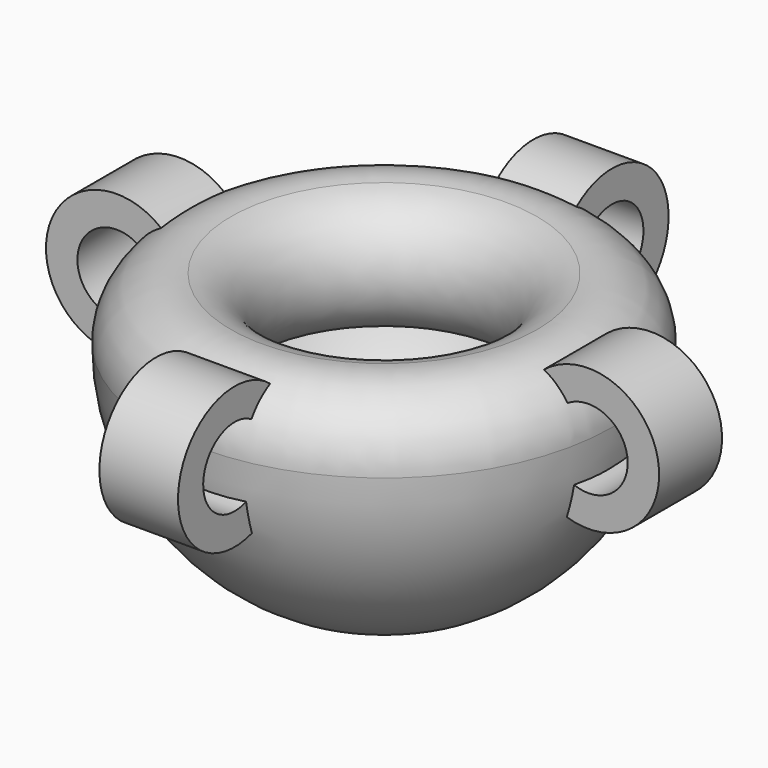
from build123d import *

# Parameters (mm, degrees)
F2_R     = 22.5
F2_R_2   = 12.5
F3_DEPTH = 12.5
F4_COUNT = 4
F4_ANGLE = 270


with BuildPart() as f1:
    # F0 (on Front) → F1 (revolve)
    with BuildSketch(Plane.XZ):
        with BuildLine():
            ThreePointArc((0, -72.5), (51.265241636, -51.265241636), (72.5, 0))
            ThreePointArc((72.5, 0), (65.2241802056, 15.4303349962), (48.6904761905, 19.6338363125))
            ThreePointArc((48.6904761905, 19.6338363125), (32.5, 0), (48.6904761905, -19.6338363125))
            ThreePointArc((48.6904761905, -19.6338363125), (29.3723815309, -43.5145171546), (0, -52.5))
            Line((0, -52.5), (0, -72.5))
        make_face()
    revolve(axis=Axis((0, 0, 0), (0, 0, -1)))

    # F2 (on Right) → F3 (join, symmetric)
    with BuildSketch(Plane.YZ):
        with Locations((75, 0)):
            Circle(F2_R)
        with Locations((75, 0)):
            Circle(F2_R_2, mode=Mode.SUBTRACT)
    extrude(amount=F3_DEPTH, both=True)

    # F4: F1 ×4 about axis
    f4_axis = Axis((0, 0, 0), (0, 0, -1))


with BuildPart() as f1_1:
    add(f1.part)
    for i in range(1, F4_COUNT):
        add(f1.part.rotate(f4_axis, i * F4_ANGLE / (F4_COUNT - 1)))


solid = f1_1.part
